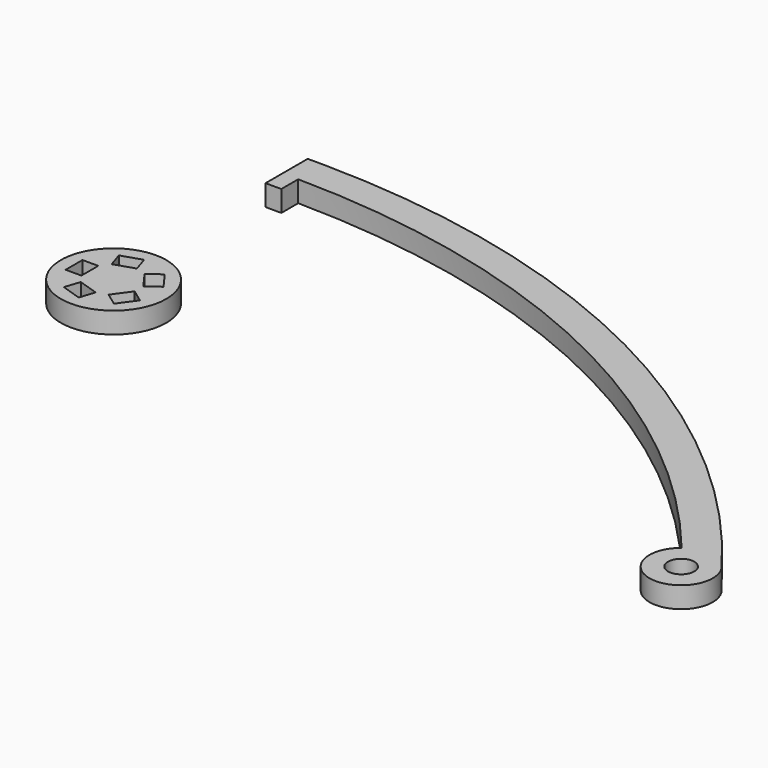
from build123d import *

# Parameters (mm, degrees)
F0_R     = 1.25
F1_DEPTH = 2
F2_R     = 5
F2_W     = 1.5
F2_H     = 2
F3_DEPTH = 2


with BuildPart() as f1:
    # F0 (on Top) → F1 (new body)
    with BuildSketch(Plane.XY):
        with BuildLine():
            Line((0.637134, -5.002636), (0.637134, -3.002636))
            ThreePointArc((0.637134, -3.002636), (33.374647, -10.608841), (59.753588, -31.43552))
            ThreePointArc((59.753588, -31.43552), (61.204685, -36.77384), (64, -32))
            ThreePointArc((64, -32), (36.07282, -8.594457), (0.661958, -0.002739))
            Line((0.661958, -0.002739), (-0.862866, 0))
            Line((-0.862866, 0), (-0.862866, -5.002636))
            Line((-0.862866, -5.002636), (0.637134, -5.002636))
        make_face()
        with Locations((61.6, -33.8)):
            Circle(F0_R, mode=Mode.SUBTRACT)
    extrude(amount=F1_DEPTH)


with BuildPart() as f3:
    # F2 (on Top) → F3 (new body)
    with BuildSketch(Plane.XY):
        Circle(F2_R)
        Polygon((0.255768, -2.448894), (-0.207757, -3.875479), (-2.10987, -3.257445), (-1.646345, -1.83086), align=None, mode=Mode.SUBTRACT)
        Polygon((2.408073, -0.5135), (3.621599, -1.395178), (2.446028, -3.013212), (1.232503, -2.131534), align=None, mode=Mode.SUBTRACT)
        with Locations((-3, 0)):
            Rectangle(F2_W, F2_H, mode=Mode.SUBTRACT)
        Polygon((-1.646345, 1.83086), (-2.10987, 3.257445), (-0.207757, 3.875479), (0.255768, 2.448894), align=None, mode=Mode.SUBTRACT)
        Polygon((1.232503, 2.131534), (2.446028, 3.013212), (3.621599, 1.395178), (2.408073, 0.5135), align=None, mode=Mode.SUBTRACT)
    extrude(amount=F3_DEPTH)


with BuildPart() as f1_1:
    # F4: moved
    add(f1.part.moved(Location((0, 24.1, 0))))


solid = Compound([f3.part, f1_1.part])
